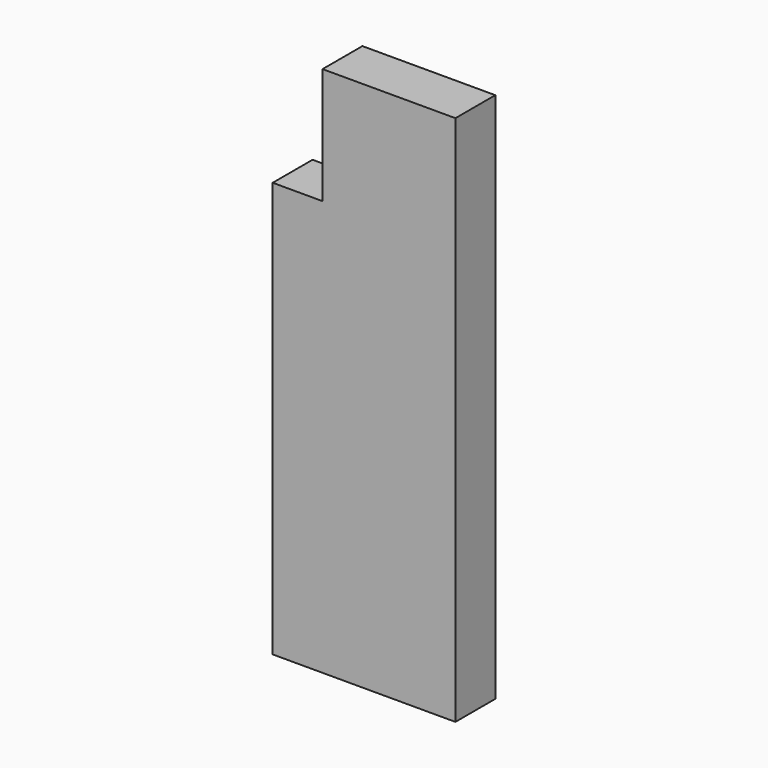
from build123d import *

# Parameters (mm, degrees)
F0_W     = 38.1
F0_H     = 406.4
F1_DEPTH = 139.7
F2_W     = 38.1
F2_H     = 88.9
F3_DEPTH = 38.1


with BuildPart() as f1:
    # F0 (on Right) → F1 (new body)
    with BuildSketch(Plane.YZ):
        with Locations((19.05, -203.2)):
            Rectangle(F0_W, F0_H)
    extrude(amount=F1_DEPTH)

    # F2 (on face) → F3 (cut, through all)
    with BuildSketch(Plane.XZ):
        with Locations((19.05, -44.45)):
            Rectangle(F2_W, F2_H)
    extrude(amount=-F3_DEPTH, mode=Mode.SUBTRACT)


solid = f1.part
